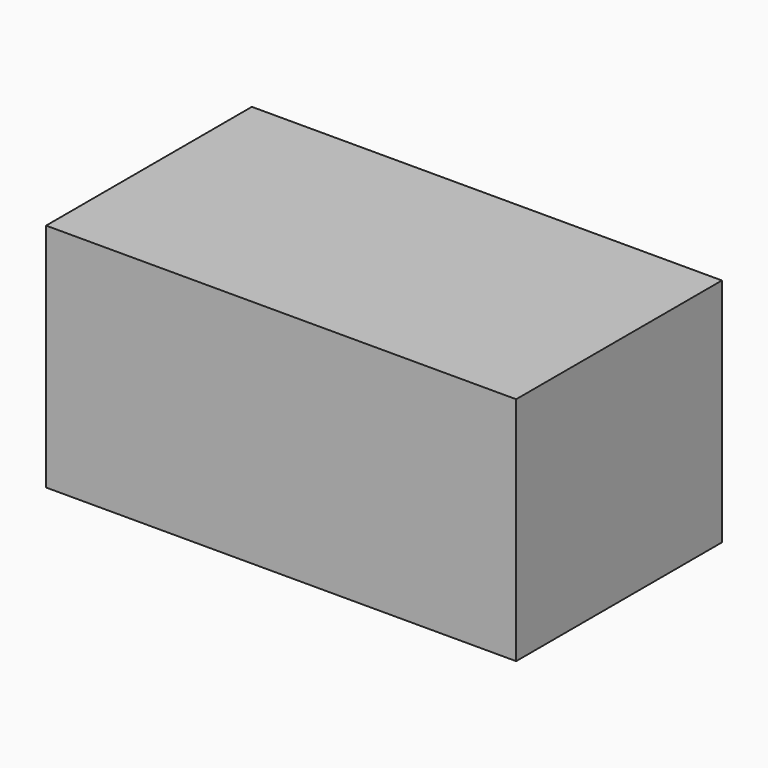
from build123d import *

# Parameters (mm, degrees)
BOX002_W     = 2
BOX002_H     = 10.5
BOX002_DEPTH = 2
BOX001_W     = 22.5
BOX001_H     = 10.5
BOX001_DEPTH = 11
BOX_W        = 26.5
BOX_H        = 14.5
BOX_DEPTH    = 13


with BuildPart() as cube002:
    # Box002 → Box002 (new body)
    with BuildSketch(Plane(origin=(0, 2, 9), x_dir=(1, 0, 0), z_dir=(0, 0, 1))):
        with Locations((1, 5.25)):
            Rectangle(BOX002_W, BOX002_H)
    extrude(amount=BOX002_DEPTH)


with BuildPart() as cube001:
    # Box001 → Box001 (new body)
    with BuildSketch(Plane(origin=(2, 2, 0), x_dir=(1, 0, 0), z_dir=(0, 0, 1))):
        with Locations((11.25, 5.25)):
            Rectangle(BOX001_W, BOX001_H)
    extrude(amount=BOX001_DEPTH)


with BuildPart() as cut001:
    # Box → Box (new body)
    with BuildSketch(Plane.XY):
        with Locations((13.25, 7.25)):
            Rectangle(BOX_W, BOX_H)
    extrude(amount=BOX_DEPTH)

    # Cut: cut Cube001
    add(cube001.part, mode=Mode.SUBTRACT)

    # Cut001: cut Cube002
    add(cube002.part, mode=Mode.SUBTRACT)


solid = cut001.part
